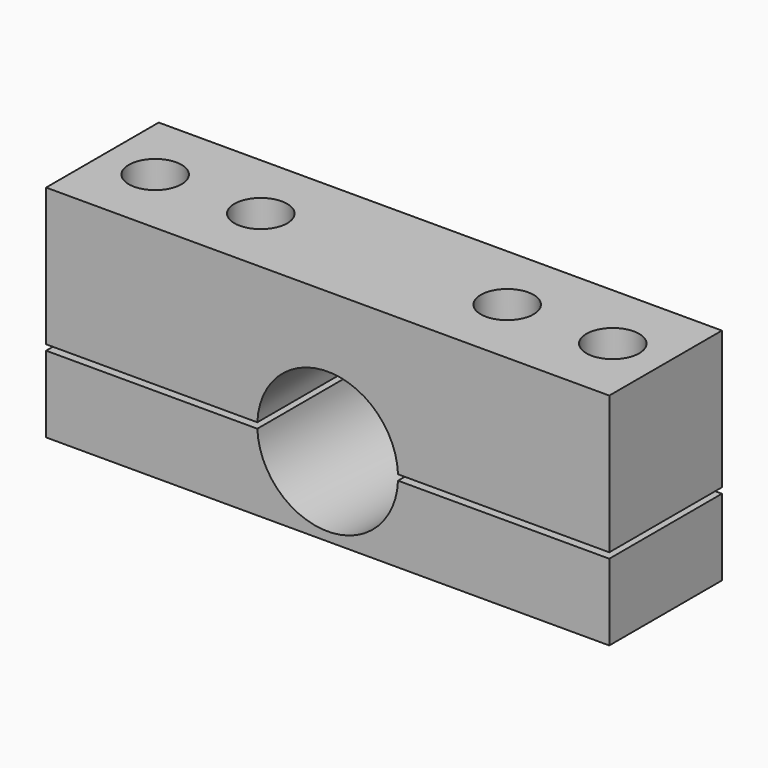
from build123d import *

# Parameters (mm, degrees)
F0_W     = 101.6
F0_H     = 49.2125
F1_DEPTH = 25.4
F2_R     = 4.7625
F3_DEPTH = 50.17456
F4_R     = 12.7
F5_DEPTH = 25.401
F6_W     = 101.6
F6_H     = 1.016
F7_DEPTH = 25.401
F8_W     = 548.216532
F8_H     = 115.56996
F9_DEPTH = 25.4


with BuildPart() as f1:
    # F0 (on Front) → F1 (new body)
    with BuildSketch(Plane.XZ):
        with Locations((50.8, 24.60625)):
            Rectangle(F0_W, F0_H)
    extrude(amount=F1_DEPTH)

    # F2 (on face) → F3 (cut)
    with BuildSketch(Plane.XY.offset(49.2125)):
        with Locations((9.525, -12.7)):
            Circle(F2_R)
        with Locations((92.075, -12.7)):
            Circle(F2_R)
        with Locations((28.575, -12.7)):
            Circle(F2_R)
        with Locations((73.025, -12.7)):
            Circle(F2_R)
    extrude(amount=-F3_DEPTH, mode=Mode.SUBTRACT)

    # F4 (on face) → F5 (cut, through all)
    with BuildSketch(Plane.XZ.offset(25.4)):
        with Locations((50.8, 14.2875)):
            Circle(F4_R)
    extrude(amount=-F5_DEPTH, mode=Mode.SUBTRACT)

    # F6 (on face) → F7 (cut, through all)
    with BuildSketch(Plane(origin=(0, 0, 0), x_dir=(-1, 0, 0), z_dir=(0, 1, 0))):
        with Locations((-50.8, 14.2875)):
            Rectangle(F6_W, F6_H)
    extrude(amount=-F7_DEPTH, mode=Mode.SUBTRACT)

    # F8 (on face) → F9 (cut)
    with BuildSketch(Plane.XZ.offset(25.4)):
        with Locations((46.434156, 97.47248)):
            Rectangle(F8_W, F8_H)
    extrude(amount=-F9_DEPTH, mode=Mode.SUBTRACT)


solid = f1.part
